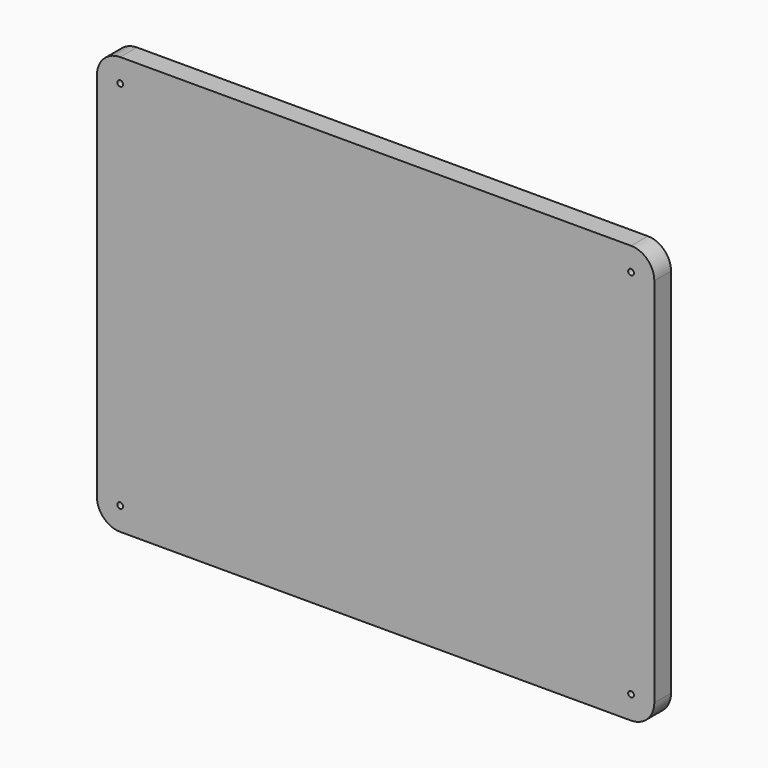
from build123d import *

# Parameters (mm, degrees)
F0_R     = 1.5875
F2_DEPTH = 11.43
F1_W     = 17.78
F1_H     = 17.78
F3_DEPTH = 2.54


with BuildPart() as f2:
    # F0 (on Front) → F2 (new body)
    with BuildSketch(Plane.XZ):
        with BuildLine():
            Line((292.1, 228.6), (12.7, 228.6))
            ThreePointArc((12.7, 228.6), (3.719744, 224.880256), (0, 215.9))
            Line((0, 215.9), (0, 12.7))
            ThreePointArc((0, 12.7), (3.719744, 3.719744), (12.7, 0))
            Line((12.7, 0), (292.1, 0))
            ThreePointArc((292.1, 0), (301.080256, 3.719744), (304.8, 12.7))
            Line((304.8, 12.7), (304.8, 215.9))
            ThreePointArc((304.8, 215.9), (301.080256, 224.880256), (292.1, 228.6))
        make_face()
        with Locations((12.7, 12.7)):
            Circle(F0_R, mode=Mode.SUBTRACT)
        with Locations((292.1, 12.7)):
            Circle(F0_R, mode=Mode.SUBTRACT)
        with Locations((12.7, 215.9)):
            Circle(F0_R, mode=Mode.SUBTRACT)
        with Locations((292.1, 215.9)):
            Circle(F0_R, mode=Mode.SUBTRACT)
    extrude(amount=F2_DEPTH)

    # F1 (on face) → F3 (cut)
    with BuildSketch(Plane.XZ):
        with Locations((14.7828, 114.3)):
            Rectangle(F1_W, F1_H)
    extrude(amount=F3_DEPTH, mode=Mode.SUBTRACT)


solid = f2.part
